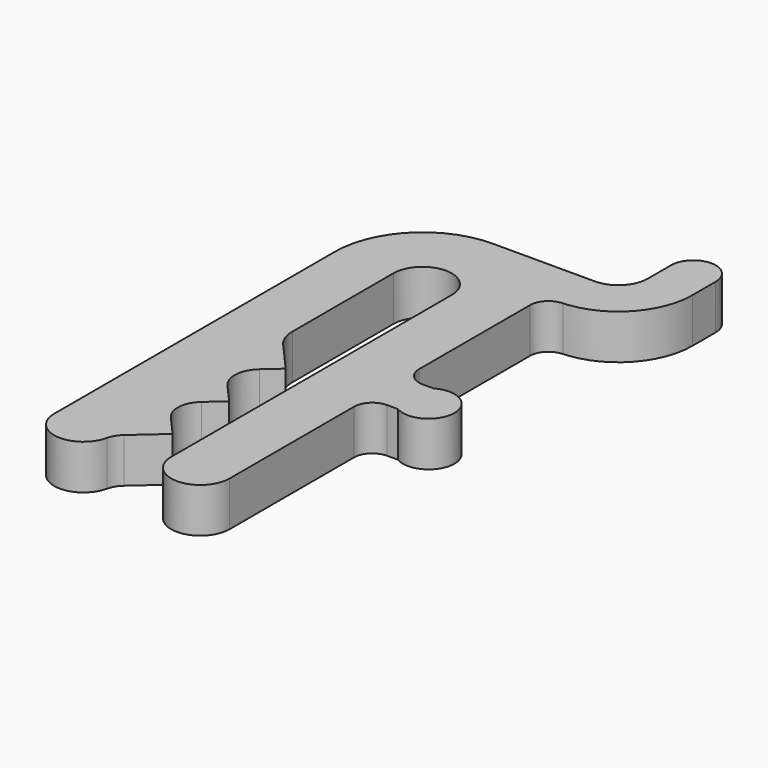
from build123d import *

# Parameters (mm, degrees)
F3_DEPTH = 4.85


with BuildPart() as f3:
    # F2 (on Top) → F3 (new body)
    with BuildSketch(Plane.XY):
        with BuildLine():
            Line((7.9375, 24.907028094), (-3.175, 24.907028094))
            ThreePointArc((-3.175, 24.907028094), (-9.9101920908, 22.1172201848), (-12.7, 15.382028094))
            Line((-12.7, 15.382028094), (-12.7, -22.717971906))
            ThreePointArc((-12.7, -22.717971906), (-9.8802997587, -25.8730292877), (-6.4295199487, -23.4241080485))
            ThreePointArc((-6.4295199487, -23.4241080485), (-6.1376092102, -22.6929936641), (-5.6358581606, -22.0863751625))
            Line((-5.6358581606, -22.0863751625), (-2.54, -19.3483561519))
            Line((-2.54, -19.3483561519), (-4.5457479551, -17.0804715423))
            ThreePointArc((-4.5457479551, -17.0804715423), (-5.2240286378, -15.1094818757), (-4.3099453491, -13.2361648465))
            Line((-4.3099453491, -13.2361648465), (-2.54, -11.6708011372))
            Line((-2.54, -11.6708011372), (-4.4670308393, -9.4919213974))
            ThreePointArc((-4.4670308393, -9.4919213974), (-5.1749040056, -7.4349400744), (-4.2209404794, -5.4798927161))
            Line((-4.2209404794, -5.4798927161), (-2.54, -3.9932461226))
            Line((-2.54, -3.9932461226), (-5.4503163021, -0.702572669))
            ThreePointArc((-5.4503163021, -0.702572669), (-6.1175435561, 0.4027397661), (-6.35, 1.6727286595))
            Line((-6.35, 1.6727286595), (-6.35, 15.382028094))
            ThreePointArc((-6.35, 15.382028094), (-3.175, 18.557028094), (0, 15.382028094))
            Line((0, 15.382028094), (0, -22.717971906))
            ThreePointArc((0, -22.717971906), (3.175, -25.892971906), (6.35, -22.717971906))
            Line((6.35, -22.717971906), (6.35, -5.842971906))
            ThreePointArc((6.35, -5.842971906), (6.9357864376, -4.4287583436), (8.35, -3.842971906))
            Line((8.35, -3.842971906), (9.525, -3.842971906))
            ThreePointArc((9.525, -3.842971906), (13.7247767679, -1.417971906), (9.525, 1.007028094))
            Line((9.525, 1.007028094), (8.35, 1.007028094))
            ThreePointArc((8.35, 1.007028094), (6.9357864376, 1.5928145316), (6.35, 3.007028094))
            Line((6.35, 3.007028094), (6.35, 18.057028094))
            ThreePointArc((6.35, 18.057028094), (6.9357864376, 19.4712416564), (8.35, 20.057028094))
            Line((8.35, 20.057028094), (7.9375, 20.057028094))
            ThreePointArc((7.9375, 20.057028094), (13.612031919, 22.407496175), (15.9625, 28.082028094))
            Line((15.9625, 28.082028094), (15.9625, 31.257028094))
            ThreePointArc((15.9625, 31.257028094), (13.5375, 33.682028094), (11.1125, 31.257028094))
            Line((11.1125, 31.257028094), (11.1125, 28.082028094))
            ThreePointArc((11.1125, 28.082028094), (10.1825640303, 25.8369640637), (7.9375, 24.907028094))
        make_face()
    extrude(amount=F3_DEPTH)


solid = f3.part
